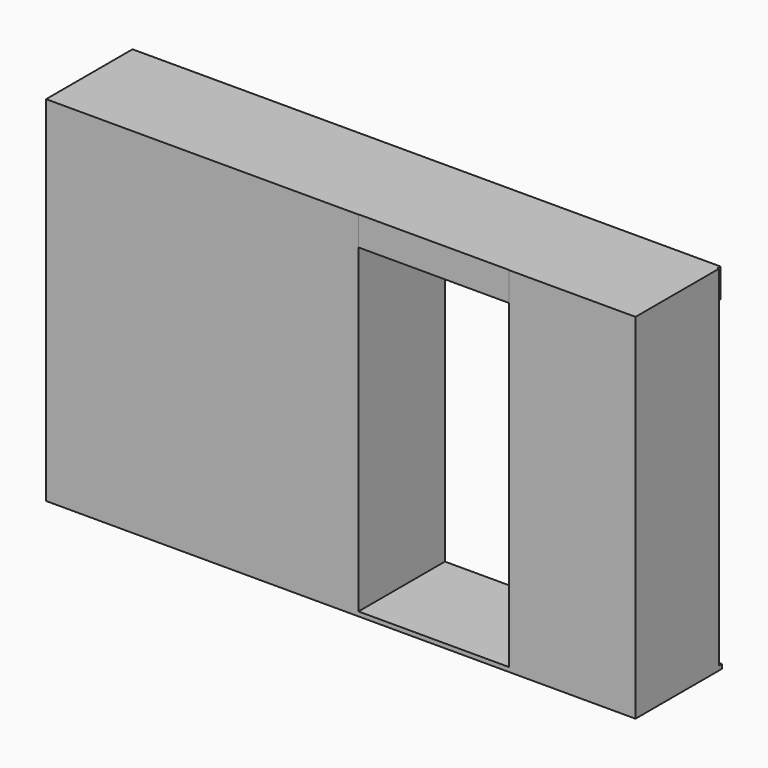
from build123d import *

# Parameters (mm, degrees)
F0_W      = 514.1673088074
F0_H      = 94.2290462554
F1_DEPTH  = 3.81
F2_W      = 2.2902190685
F2_H      = 94.2290462554
F3_DEPTH  = 304.8
F4_W      = 3.202021122
F4_H      = 90.812921524
F5_DEPTH  = 304.8
F6_W      = 1.6730939969
F6_H      = 94.2290462554
F7_DEPTH  = 304.8
F8_W      = 3.8608312607
F8_H      = 94.2290462554
F9_DEPTH  = 304.8
F10_W     = 3.5790838301
F10_H     = 78.3394947648
F11_DEPTH = 304.8
F12_W     = 272.5380798802
F12_H     = 308.61
F13_DEPTH = 0.254
F14_W     = 110.2488040924
F14_H     = 308.61
F15_DEPTH = 0.254
F16_W     = 90.558921524
F16_H     = 2.1528995848
F17_DEPTH = 105.41
F18_W     = 90.558921524
F18_H     = 2.4020688844
F19_DEPTH = 106.934
F20_W     = 90.558921524
F20_H     = 2.1886378527
F21_DEPTH = 106.934
F22_W     = 1.4953613281
F22_H     = 90.558921524
F23_DEPTH = 18.542
F24_R     = 2.7883656223
F25_DEPTH = 106.68
F26_W     = 93.9750462554
F26_H     = 1.1749916458
F27_DEPTH = 268.224
F28_W     = 93.9750462554
F28_H     = 2.5478154421
F29_DEPTH = 270.256
F30_W     = 93.9750462554
F30_H     = 1.2798203731
F31_DEPTH = 269.24
F32_W     = 93.9750462554
F32_H     = 1.3391077518
F33_DEPTH = 133.35
F34_W     = 93.9750462554
F34_H     = 2.4402439594
F35_DEPTH = 131.318
F36_R     = 1.6466720005
F37_DEPTH = 136.906
F38_W     = 512.9730403423
F38_H     = 93.9750462554
F39_DEPTH = 25.4


with BuildPart() as f1:
    # F0 (on Top) → F1 (new body)
    with BuildSketch(Plane.XY):
        with Locations((-2.9884278774, -84.9680285901)):
            Rectangle(F0_W, F0_H)
    extrude(amount=F1_DEPTH)

    # F2 (on face) → F3 (join)
    with BuildSketch(Plane.XY.offset(3.81)):
        with Locations((144.9915319681, -84.9680285901)):
            Rectangle(F2_W, F2_H)
    extrude(amount=F3_DEPTH)

    # F4 (on face) → F5 (join)
    with BuildSketch(Plane.XY.offset(3.81)):
        with Locations((252.4942159653, -86.6760909557)):
            Rectangle(F4_W, F4_H)
    extrude(amount=F5_DEPTH)

    # F6 (on face) → F7 (join)
    with BuildSketch(Plane.XY.offset(3.81)):
        with Locations((11.6294506006, -84.9680285901)):
            Rectangle(F6_W, F6_H)
    extrude(amount=F7_DEPTH)

    # F8 (on face) → F9 (join)
    with BuildSketch(Plane.XY.offset(3.81)):
        with Locations((-258.1416666508, -84.9680285901)):
            Rectangle(F8_W, F8_H)
    extrude(amount=F9_DEPTH)

    # F10 (on face) → F11 (join)
    with BuildSketch(Plane.XY.offset(3.81)):
        with Locations((-120.9196317941, -92.9128043354)):
            Rectangle(F10_W, F10_H)
    extrude(amount=F11_DEPTH)

    # F12 (on face) → F13 (join)
    with BuildSketch(Plane.XZ.offset(132.0825517178)):
        with Locations((-123.803042341, 154.305)):
            Rectangle(F12_W, F12_H)
    extrude(amount=-F13_DEPTH)

    # F14 (on face) → F15 (join)
    with BuildSketch(Plane.XZ.offset(132.0825517178)):
        with Locations((198.9708244801, 154.305)):
            Rectangle(F14_W, F14_H)
    extrude(amount=-F15_DEPTH)

    # F16 (on face) → F17 (join)
    with BuildSketch(Plane(origin=(250.8932054043, 0, 0), x_dir=(0, -1, 0), z_dir=(-1, 0, 0))):
        with Locations((86.5490909557, 155.1335502076)):
            Rectangle(F16_W, F16_H)
    extrude(amount=F17_DEPTH)

    # F18 (on face) → F19 (join)
    with BuildSketch(Plane(origin=(250.8932054043, 0, 0), x_dir=(0, -1, 0), z_dir=(-1, 0, 0))):
        with Locations((86.5490909557, 80.1345846498)):
            Rectangle(F18_W, F18_H)
    extrude(amount=F19_DEPTH)

    # F20 (on face) → F21 (join)
    with BuildSketch(Plane(origin=(250.8932054043, 0, 0), x_dir=(0, -1, 0), z_dir=(-1, 0, 0))):
        with Locations((86.5490909557, 174.4099780917)):
            Rectangle(F20_W, F20_H)
    extrude(amount=F21_DEPTH)

    # F22 (on face) → F23 (join)
    with BuildSketch(Plane.XY.offset(156.21)):
        with Locations((197.7672427893, -86.5490909557)):
            Rectangle(F22_W, F22_H)
    extrude(amount=F23_DEPTH)

    # F24 (on face) → F25 (join)
    with BuildSketch(Plane(origin=(250.8932054043, 0, 0), x_dir=(0, -1, 0), z_dir=(-1, 0, 0))):
        with Locations((86.5490909557, 288.2337272167)):
            Circle(F24_R)
    extrude(amount=F25_DEPTH)

    # F26 (on face) → F27 (join)
    with BuildSketch(Plane(origin=(10.7929036021, 0, 0), x_dir=(0, -1, 0), z_dir=(-1, 0, 0))):
        with Locations((84.8410285901, 156.7974958229)):
            Rectangle(F26_W, F26_H)
    extrude(amount=F27_DEPTH)

    # F28 (on face) → F29 (join)
    with BuildSketch(Plane(origin=(10.7929036021, 0, 0), x_dir=(0, -1, 0), z_dir=(-1, 0, 0))):
        with Locations((84.8410285901, 179.0851131082)):
            Rectangle(F28_W, F28_H)
    extrude(amount=F29_DEPTH)

    # F30 (on face) → F31 (join)
    with BuildSketch(Plane(origin=(10.7929036021, 0, 0), x_dir=(0, -1, 0), z_dir=(-1, 0, 0))):
        with Locations((84.8410285901, 80.6499101865)):
            Rectangle(F30_W, F30_H)
    extrude(amount=F31_DEPTH)

    # F32 (on face) → F33 (join)
    with BuildSketch(Plane(origin=(10.7929036021, 0, 0), x_dir=(0, -1, 0), z_dir=(-1, 0, 0))):
        with Locations((84.8410285901, 267.7811831236)):
            Rectangle(F32_W, F32_H)
    extrude(amount=F33_DEPTH)

    # F34 (on face) → F35 (join)
    with BuildSketch(Plane(origin=(10.7929036021, 0, 0), x_dir=(0, -1, 0), z_dir=(-1, 0, 0))):
        with Locations((84.8410285901, 219.618961215)):
            Rectangle(F34_W, F34_H)
    extrude(amount=F35_DEPTH)

    # F36 (on face) → F37 (join)
    with BuildSketch(Plane(origin=(-122.7091737092, 0, 0), x_dir=(0, -1, 0), z_dir=(-1, 0, 0))):
        with Locations((94.4481417537, 294.7028875351)):
            Circle(F36_R)
    extrude(amount=F37_DEPTH)

    # F38 (on face) → F39 (join)
    with BuildSketch(Plane.XY.offset(308.61)):
        with Locations((-3.5855621099, -84.8410285901)):
            Rectangle(F38_W, F38_H)
    extrude(amount=-F39_DEPTH)


solid = f1.part
